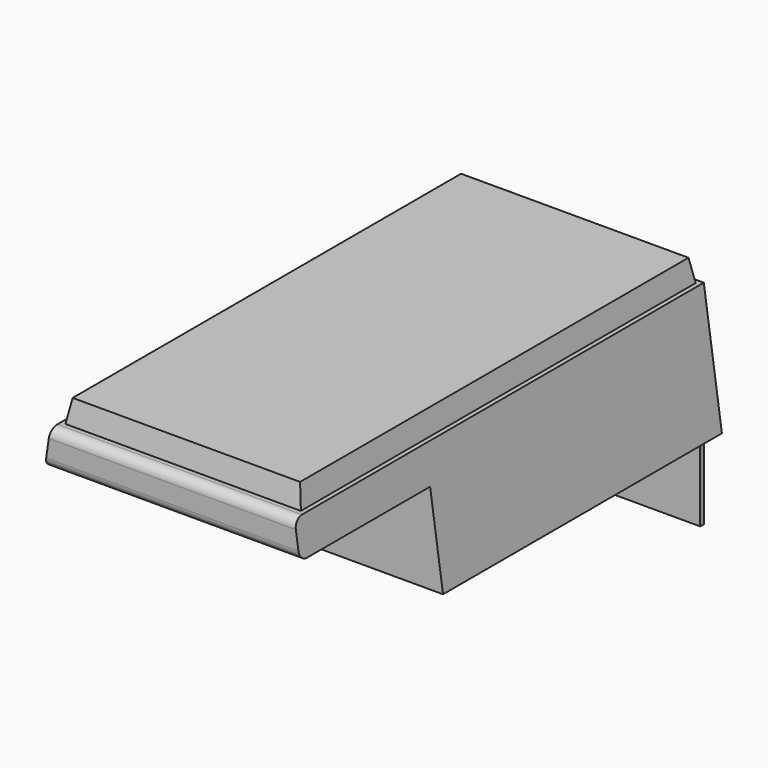
from build123d import *

# Parameters (mm, degrees)
F1_DEPTH  = 1955.8
F3_DEPTH  = 914.4
F4_R      = 50.8
F5_W      = 1320.8
F5_H      = 2768.6
F6_DEPTH  = 127
F6_TAPER  = 10
F7_W      = 1371.6
F7_H      = 482.6
F8_DEPTH  = 25.4
F9_W      = 577.85
F9_H      = 1028.7
F10_DEPTH = 12.7


with BuildPart() as f1:
    # F0 (on Front) → F1 (new body)
    with BuildSketch(Plane.XZ):
        Polygon((-787.4, 0), (0, 0), (787.4, 0), (685.8, 711.2), (0, 711.2), (-685.8, 711.2), align=None)
    extrude(amount=F1_DEPTH)

    # F2 (on face) → F3 (join)
    with BuildSketch(Plane.XZ.offset(1955.8)):
        Polygon((-685.8, 711.2), (-714.8285714286, 508), (714.8285714286, 508), (685.8, 711.2), align=None)
    extrude(amount=F3_DEPTH)

    # F4
    f4_edges = [f1.edges().sort_by_distance(p)[0] for p in [
        (0, -2870.2, 711.2),
        (0, -2870.2, 508),
    ]]
    fillet(f4_edges, radius=F4_R)

    # F7 (on face) → F8 (join)
    with BuildSketch(Plane(origin=(0, 0, 0), x_dir=(-1, 0, 0), z_dir=(0, 1, 0))):
        with Locations((0, -241.3)):
            Rectangle(F7_W, F7_H)
    extrude(amount=-F8_DEPTH)


with BuildPart() as f6:
    # F5 (on face) → F6 (new body)
    with BuildSketch(Plane.XY.offset(711.2)):
        with Locations((0, -1409.7)):
            Rectangle(F5_W, F5_H)
    extrude(amount=F6_DEPTH, taper=F6_TAPER)


with BuildPart() as f10:
    # F9 (on face) → F10 (new body)
    with BuildSketch(Plane(origin=(0, 0, 0), x_dir=(-1, 0, 0), z_dir=(0, 1, 0))):
        with Locations((-295.275, 95.25)):
            Rectangle(F9_W, F9_H)
    extrude(amount=F10_DEPTH)


with BuildPart() as f10b:
    # F9 (on face) → F10, piece 2 (new body)
    with BuildSketch(Plane(origin=(0, 0, 0), x_dir=(-1, 0, 0), z_dir=(0, 1, 0))):
        with Locations((295.275, 95.25)):
            Rectangle(F9_W, F9_H)
    extrude(amount=F10_DEPTH)


solid = Compound([f1.part, f6.part, f10.part, f10b.part])
